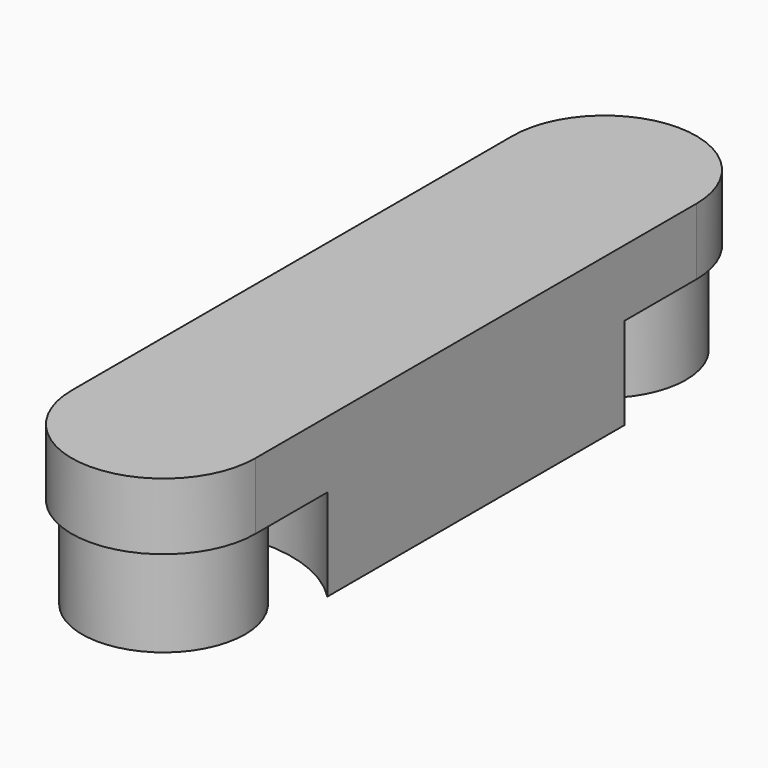
from build123d import *

# Parameters (mm, degrees)
F0_W     = 400
F0_H     = 1200
F1_DEPTH = 145
F2_R     = 177.5
F3_DEPTH = 200


with BuildPart() as f1:
    # F0 (on Top) → F1 (new body)
    with BuildSketch(Plane.XY):
        with BuildLine():
            ThreePointArc((200, 600), (0, 800), (-200, 600))
            Line((-200, 600), (200, 600))
        make_face()
        Rectangle(F0_W, F0_H)
        with BuildLine():
            Line((200, -600), (-200, -600))
            ThreePointArc((-200, -600), (0, -800), (200, -600))
        make_face()
    extrude(amount=F1_DEPTH)

    # F2 (on face) → F3 (join)
    with BuildSketch(Plane(origin=(0, 0, 0), x_dir=(1, 0, 0), z_dir=(0, 0, -1))):
        with Locations((0, 600)):
            Circle(F2_R)
        with Locations((0, -600)):
            Circle(F2_R)
        with BuildLine():
            ThreePointArc((200, 404.203802), (0.034243, 320.081481), (-200, 404.040821))
            Line((-200, 404.040821), (-200, -404.040821))
            ThreePointArc((-200, -404.040821), (0, -320), (200, -404.040821))
            Line((200, -404.040821), (200, 404.203802))
        make_face()
    extrude(amount=F3_DEPTH)


solid = f1.part
